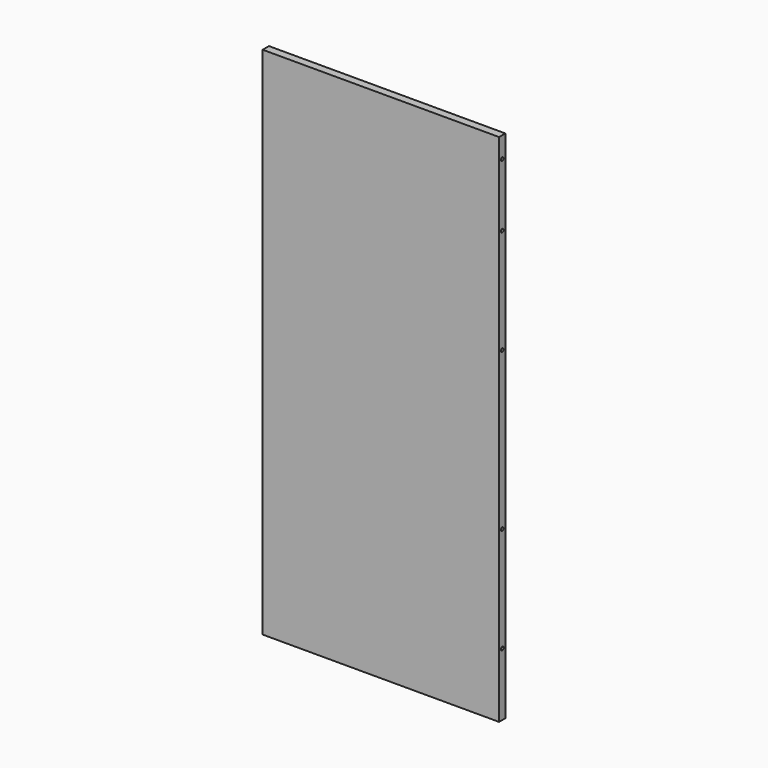
from build123d import *

# Parameters (mm, degrees)
F0_W     = 571.5
F0_H     = 1244.6
F1_DEPTH = 19.05
F3_D     = 8.001
F3_DEPTH = 25.4
F3_TIP   = 2.4037429064
F5_D     = 8.001
F5_DEPTH = 25.4
F5_TIP   = 2.4037429064


with BuildPart() as f1:
    # F0 (on Front) → F1 (new body)
    with BuildSketch(Plane.XZ):
        Rectangle(F0_W, F0_H)
    extrude(amount=F1_DEPTH)

    # F3
    with Locations(Plane.YZ.offset(285.75)):
        with Locations((-9.525, 571.5), (-9.525, 419.1), (-9.525, 165.1), (-9.525, -215.9), (-9.525, -469.9)):
            Hole(F3_D / 2, depth=F3_DEPTH)
            with Locations((0, 0, -(F3_DEPTH + F3_TIP / 2))):  # 118° drill point
                Cone(0, F3_D / 2, F3_TIP, mode=Mode.SUBTRACT)

    # F5
    with Locations(Plane(origin=(-285.75, 0, 0), x_dir=(0, -1, 0), z_dir=(-1, 0, 0))):
        with Locations((9.525, 571.5), (9.525, 419.1), (9.525, 165.1), (9.525, -215.9), (9.525, -469.9)):
            Hole(F5_D / 2, depth=F5_DEPTH)
            with Locations((0, 0, -(F5_DEPTH + F5_TIP / 2))):  # 118° drill point
                Cone(0, F5_D / 2, F5_TIP, mode=Mode.SUBTRACT)


solid = f1.part
